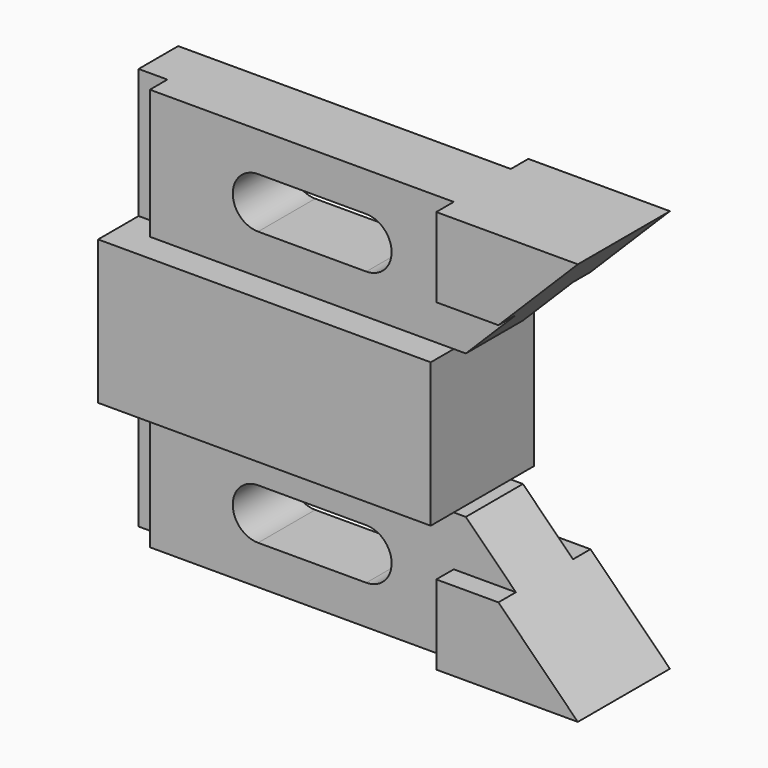
from build123d import *

# Parameters (mm, degrees)
F0_W      = 6.35
F0_H      = 28.575
F1_DEPTH  = 14.224
F4_DEPTH  = 130.049
F6_W      = 73.406
F6_H      = 6.35
F7_DEPTH  = 48.387
F9_W      = 73.406
F9_H      = 6.35
F10_DEPTH = 53.975


with BuildPart() as f1:
    # F0 (on Front) → F1 (new body, symmetric)
    with BuildSketch(Plane.XZ):
        with Locations((-49.149, 30.1625)):
            Rectangle(F0_W, F0_H)
        Polygon((17.272, 44.45), (-45.974, 44.45), (-45.974, 15.875), (21.082, 15.875), (23.749, 15.875), (34.798, 26.924), (17.272, 26.924), align=None)
        with BuildLine():
            ThreePointArc((-22.098, 24.638), (-27.686, 30.226), (-22.098, 35.814))
            Line((-22.098, 35.814), (1.778, 35.814))
            ThreePointArc((1.778, 35.814), (7.366, 30.226), (1.778, 24.638))
            Line((1.778, 24.638), (-22.098, 24.638))
        make_face(mode=Mode.SUBTRACT)
        Polygon((-45.974, 15.875), (-52.324, 15.875), (-52.324, -15.875), (-45.974, -15.875), (21.082, -15.875), (21.082, 15.875), align=None)
        Polygon((52.324, 44.45), (17.272, 44.45), (17.272, 26.924), (34.798, 26.924), align=None)
        with Locations((-49.149, -30.1625)):
            Rectangle(F0_W, F0_H)
        Polygon((21.082, -15.875), (-45.974, -15.875), (-45.974, -44.45), (17.272, -44.45), (17.272, -26.924), (34.798, -26.924), (23.749, -15.875), align=None)
        with BuildLine():
            Line((1.778, -35.814), (-22.098, -35.814))
            ThreePointArc((-22.098, -35.814), (-27.686, -30.226), (-22.098, -24.638))
            Line((-22.098, -24.638), (1.778, -24.638))
            ThreePointArc((1.778, -24.638), (7.366, -30.226), (1.778, -35.814))
        make_face(mode=Mode.SUBTRACT)
        Polygon((17.272, -26.924), (17.272, -44.45), (52.324, -44.45), (34.798, -26.924), align=None)
    extrude(amount=F1_DEPTH, both=True)

    # F3 (on offset) → F4 (cut, through all)
    with BuildSketch(Plane(origin=(-77.724, 0, 0), x_dir=(0, -1, 0), z_dir=(-1, 0, 0))):
        Polygon((-14.224, 44.45), (-14.224, 15.875), (-7.874, 15.875), (-7.874, 26.924), (-12.7, 26.924), (-12.7, 44.45), align=None)
        Polygon((7.874, 26.924), (7.874, 15.875), (14.224, 15.875), (14.224, 44.45), (12.7, 44.45), (12.7, 26.924), align=None)
        Polygon((-7.874, -15.875), (-14.224, -15.875), (-14.224, -44.45), (-12.7, -44.45), (-12.7, -26.924), (-7.874, -26.924), align=None)
        Polygon((14.224, -15.875), (7.874, -15.875), (7.874, -26.924), (12.7, -26.924), (12.7, -44.45), (14.224, -44.45), align=None)
    extrude(amount=-F4_DEPTH, mode=Mode.SUBTRACT)

    # F6 (on offset) → F7 (cut, through all)
    with BuildSketch(Plane.XY.offset(64.262)):
        Polygon((-52.324, -14.224), (21.082, -14.224), (21.082, -7.874), (-45.974, -7.874), (-45.974, -3.048), (-52.324, -3.048), align=None)
        with Locations((-15.621, 11.049)):
            Rectangle(F6_W, F6_H)
    extrude(amount=-F7_DEPTH, mode=Mode.SUBTRACT)

    # F9 (on offset) → F10 (cut, through all)
    with BuildSketch(Plane(origin=(0, 0, -69.85), x_dir=(1, 0, 0), z_dir=(0, 0, -1))):
        Polygon((-52.324, 14.224), (-52.324, 3.048), (-45.974, 3.048), (-45.974, 7.874), (21.082, 7.874), (21.082, 14.224), align=None)
        with Locations((-15.621, -11.049)):
            Rectangle(F9_W, F9_H)
    extrude(amount=-F10_DEPTH, mode=Mode.SUBTRACT)


solid = f1.part
